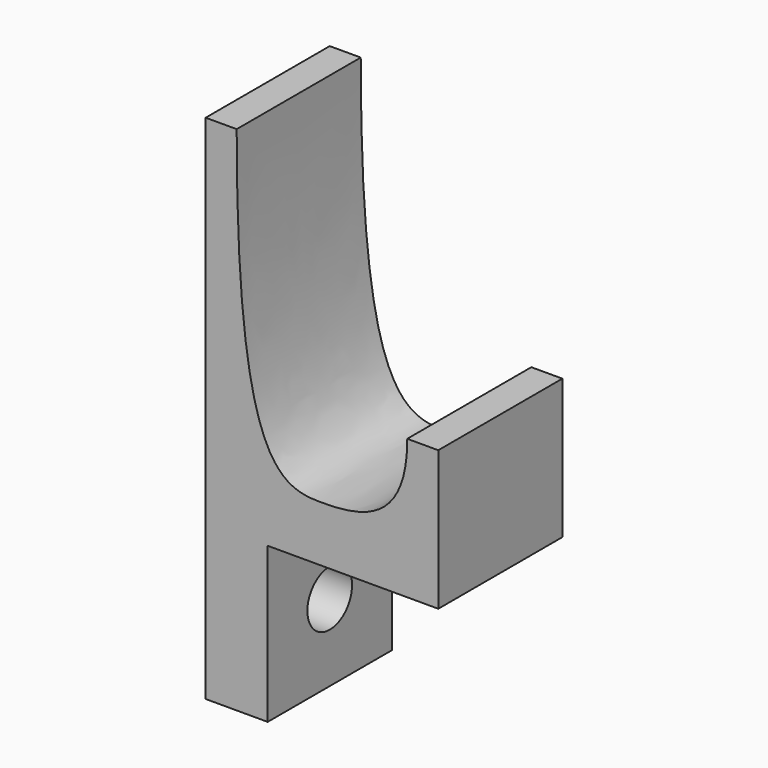
from build123d import *

# Parameters (mm, degrees)
CYLINDER_R     = 1.8
CYLINDER_DEPTH = 40
PAD_DEPTH      = 10


with BuildPart() as hole:
    # Cylinder → Cylinder (new body)
    with BuildSketch(Plane(origin=(-25, -5, -8), x_dir=(0, 0, -1), z_dir=(1, 0, 0))):
        Circle(CYLINDER_R)
    extrude(amount=CYLINDER_DEPTH)


with BuildPart() as cut:
    # Sketch → Pad (new body)
    with BuildSketch(Plane.XZ):
        with BuildLine():
            Line((-7.5, -13), (-7.5, 20))
            Line((-7.5, 20), (-5.5, 20))
            add(Edge.make_bspline(
                [(-5.5, 20), (-5.5, 1.17), (0, 0), (5.5, 1.17), (5.5, 6)],
                knots=[0, 0, 0, 0, 0.5, 1, 1, 1, 1], degree=3))
            Line((5.5, 6), (7.5, 6))
            Line((7.5, 6), (7.5, -3))
            Line((7.5, -3), (-3.5, -3))
            Line((-3.5, -3), (-3.5, -13))
            Line((-3.5, -13), (-7.5, -13))
        make_face()
    extrude(amount=PAD_DEPTH)

    # Cut: cut hole
    add(hole.part, mode=Mode.SUBTRACT)


solid = cut.part
